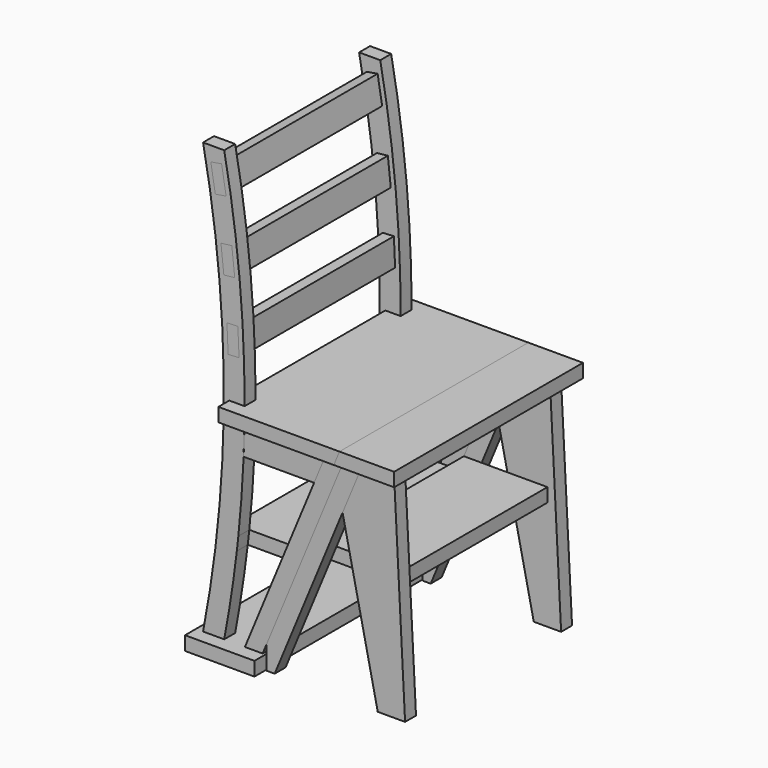
from build123d import *

# Parameters (mm, degrees)
F0_W           = 127
F0_H           = 25.4
F1_DEPTH       = 431.8
F7_START       = 165.9
F7_DEPTH       = 25
F8_DEPTH       = 215.9
F8_DEPTH_BACK  = 215.9
F10_DEPTH      = 25
F12_DEPTH      = 25
F14_DEPTH      = 165.9
F14_DEPTH_BACK = 165.9
F15_DEPTH      = 190.9
F15_DEPTH_BACK = 190.9
F16_DEPTH      = 215.9
F16_DEPTH_BACK = 215.9
F17_DEPTH      = 165.9
F17_DEPTH_BACK = 165.9
F19_START      = 165.9
F19_DEPTH      = 25
F22_START      = 165.9
F22_DEPTH      = 25


with BuildPart() as f1:
    # F0 (on Front) → F1 (new body)
    with BuildSketch(Plane.XZ):
        with Locations((63.5, 12.7)):
            Rectangle(F0_W, F0_H)
    extrude(amount=-F1_DEPTH)


with BuildPart() as f7:
    # F6 (on plane+point) → F7 (new body)
    with BuildSketch(Plane.XZ.offset(-215.9).offset(F7_START)):
        with BuildLine():
            Line((49.358533718, 175), (49.358533718, 200))
            Line((49.358533718, 200), (77.5147993211, 200))
            ThreePointArc((77.5147993211, 200), (85.2525152456, 293.873632884), (88.7679401276, 388))
            Line((88.7679401276, 388), (61, 388))
            Line((61, 388), (61, 413))
            Line((61, 413), (88.9908367156, 413))
            ThreePointArc((88.9908367156, 413), (79.9444647253, 613.8948191706), (51.7010197752, 813))
            Line((51.7010197752, 813), (13, 813))
            ThreePointArc((13, 813), (51, 419.2), (13, 25.4))
            Line((13, 25.4), (51.7010197752, 25.4))
            ThreePointArc((51.7010197752, 25.4), (64.5684693976, 99.99214596), (74.7361304376, 175))
            Line((74.7361304376, 175), (49.358533718, 175))
        make_face()
        Polygon((58.8963284271, 486.7843108688), (56.6588197025, 536.7342213262), (76.6387838854, 537.6292248161), (78.8762926101, 487.6793143587), align=None, mode=Mode.SUBTRACT)
        Polygon((51.0038156462, 611.9157040706), (45.7441538721, 661.6382940878), (65.633189879, 663.7421587975), (70.8928516531, 614.0195687802), align=None, mode=Mode.SUBTRACT)
        Polygon((35.4365940724, 737.034373409), (27.1573289044, 786.3441469664), (46.8812383273, 789.6558530336), (55.1605034953, 740.3460794762), align=None, mode=Mode.SUBTRACT)
        with BuildLine():
            Line((61, 388), (88.7679401276, 388))
            ThreePointArc((88.7679401276, 388), (88.9166368522, 400.4996678981), (88.9908367156, 413))
            Line((88.9908367156, 413), (61, 413))
            Line((61, 413), (61, 388))
        make_face()
        with BuildLine():
            Line((77.5147993211, 200), (49.358533718, 200))
            Line((49.358533718, 200), (49.358533718, 175))
            Line((49.358533718, 175), (74.7361304376, 175))
            ThreePointArc((74.7361304376, 175), (76.1629411944, 187.4958346292), (77.5147993211, 200))
        make_face()
    extrude(amount=F7_DEPTH)


with BuildPart() as f8:
    # F6 (on plane+point) → F8 (new body, two sides)
    with BuildSketch(Plane.XZ.offset(-215.9)) as f8_sk:
        with BuildLine():
            ThreePointArc((88.9908367156, 413), (88.9166368522, 400.4996678981), (88.7679401276, 388))
            Line((88.7679401276, 388), (272.1938377165, 388))
            Line((272.1938377165, 388), (282.5491767758, 413))
            Line((282.5491767758, 413), (88.9908367156, 413))
        make_face()
        with BuildLine():
            Line((61, 388), (88.7679401276, 388))
            ThreePointArc((88.7679401276, 388), (88.9166368522, 400.4996678981), (88.9908367156, 413))
            Line((88.9908367156, 413), (61, 413))
            Line((61, 413), (61, 388))
        make_face()
    extrude(amount=F8_DEPTH)
    extrude(f8_sk.sketch, amount=-F8_DEPTH_BACK)


with BuildPart() as f10:
    # F9 (on offset) → F10 (new body)
    with BuildSketch(Plane.XZ.offset(-25)):
        Polygon((122, 25.4), (272.1938377165, 388), (239.7220717077, 388), (89.5282339912, 25.4), align=None)
    extrude(amount=-F10_DEPTH)


with BuildPart() as f12:
    # F11 (on offset) → F12 (new body)
    with BuildSketch(Plane.XZ.offset(-25)):
        with BuildLine():
            ThreePointArc((88.7679401276, 388), (88.1500688424, 359.4944838008), (87.1447770272, 331))
            Line((87.1447770272, 331), (216.1118986524, 331))
            Line((216.1118986524, 331), (239.7220717077, 388))
            Line((239.7220717077, 388), (88.7679401276, 388))
        make_face()
    extrude(amount=-F12_DEPTH)


with BuildPart() as f13_1:
    # F13: instance of F12
    add(f12.part.mirror(Plane.XZ.offset(-215.9)))


with BuildPart() as f13_2:
    # F13: instance of F10
    add(f10.part.mirror(Plane.XZ.offset(-215.9)))


with BuildPart() as f13_3:
    # F13: instance of F7
    add(f7.part.mirror(Plane.XZ.offset(-215.9)))


with BuildPart() as f14:
    # F6 (on plane+point) → F14 (new body, two sides)
    with BuildSketch(Plane.XZ.offset(-215.9)) as f14_sk:
        with BuildLine():
            Line((194.3216879903, 200), (77.5147993211, 200))
            ThreePointArc((77.5147993211, 200), (76.1629411944, 187.4958346292), (74.7361304376, 175))
            Line((74.7361304376, 175), (183.966348931, 175))
            Line((183.966348931, 175), (194.3216879903, 200))
        make_face()
        with BuildLine():
            Line((77.5147993211, 200), (49.358533718, 200))
            Line((49.358533718, 200), (49.358533718, 175))
            Line((49.358533718, 175), (74.7361304376, 175))
            ThreePointArc((74.7361304376, 175), (76.1629411944, 187.4958346292), (77.5147993211, 200))
        make_face()
    extrude(amount=F14_DEPTH)
    extrude(f14_sk.sketch, amount=-F14_DEPTH_BACK)


with BuildPart() as f15:
    # F6 (on plane+point) → F15 (new body, two sides)
    with BuildSketch(Plane.XZ.offset(-215.9)) as f15_sk:
        Polygon((46.8812383273, 789.6558530336), (27.1573289044, 786.3441469664), (35.4365940724, 737.034373409), (55.1605034953, 740.3460794762), align=None)
    extrude(amount=F15_DEPTH)
    extrude(f15_sk.sketch, amount=-F15_DEPTH_BACK)


with BuildPart() as f15b:
    # F6 (on plane+point) → F15, piece 2 (new body, two sides)
    with BuildSketch(Plane.XZ.offset(-215.9)) as f15_2_sk:
        Polygon((65.633189879, 663.7421587975), (45.7441538721, 661.6382940878), (51.0038156462, 611.9157040706), (70.8928516531, 614.0195687802), align=None)
    extrude(amount=F15_DEPTH)
    extrude(f15_2_sk.sketch, amount=-F15_DEPTH_BACK)


with BuildPart() as f15c:
    # F6 (on plane+point) → F15, piece 3 (new body, two sides)
    with BuildSketch(Plane.XZ.offset(-215.9)) as f15_3_sk:
        Polygon((76.6387838854, 537.6292248161), (56.6588197025, 536.7342213262), (58.8963284271, 486.7843108688), (78.8762926101, 487.6793143587), align=None)
    extrude(amount=F15_DEPTH)
    extrude(f15_3_sk.sketch, amount=-F15_DEPTH_BACK)


with BuildPart() as f16:
    # F6 (on plane+point) → F16 (new body, two sides)
    with BuildSketch(Plane.XZ.offset(-215.9)) as f16_sk:
        Polygon((282.5491767758, 413), (272.1938377165, 388), (382.5491767758, 388), (382.5491767758, 413), align=None)
    extrude(amount=F16_DEPTH)
    extrude(f16_sk.sketch, amount=-F16_DEPTH_BACK)


with BuildPart() as f17:
    # F6 (on plane+point) → F17 (new body, two sides)
    with BuildSketch(Plane.XZ.offset(-215.9)) as f17_sk:
        Polygon((204.6770270497, 225), (194.3216879903, 200), (357.5491767758, 200), (357.5491767758, 225), align=None)
    extrude(amount=F17_DEPTH)
    extrude(f17_sk.sketch, amount=-F17_DEPTH_BACK)


with BuildPart() as f19:
    # F18 (on plane+point) → F19 (new body)
    with BuildSketch(Plane.XZ.offset(-215.9).offset(F19_START)):
        Polygon((272.1938377165, 388), (129, 42.2994949366), (129, 0), (143.9507415245, 0), (304.6656037253, 388), align=None)
    extrude(amount=F19_DEPTH)


with BuildPart() as f20_1:
    # F20: instance of F19
    add(f19.part.mirror(Plane.XZ.offset(-215.9)))


with BuildPart() as f22:
    # F21 (on plane+point) → F22 (new body)
    with BuildSketch(Plane.XZ.offset(-215.9).offset(F22_START)):
        Polygon((382.5491767758, 0), (362.5491767758, 388), (304.6656037253, 388), (268.2148102364, 300), (332.5491767758, 0), align=None)
    extrude(amount=F22_DEPTH)


with BuildPart() as f23_1:
    # F23: instance of F22
    add(f22.part.mirror(Plane.XZ.offset(-215.9)))


solid = Compound([f1.part, f7.part, f8.part, f10.part, f12.part, f13_1.part, f13_2.part, f13_3.part, f14.part, f15.part, f15b.part, f15c.part, f16.part, f17.part, f19.part, f20_1.part, f22.part, f23_1.part])
